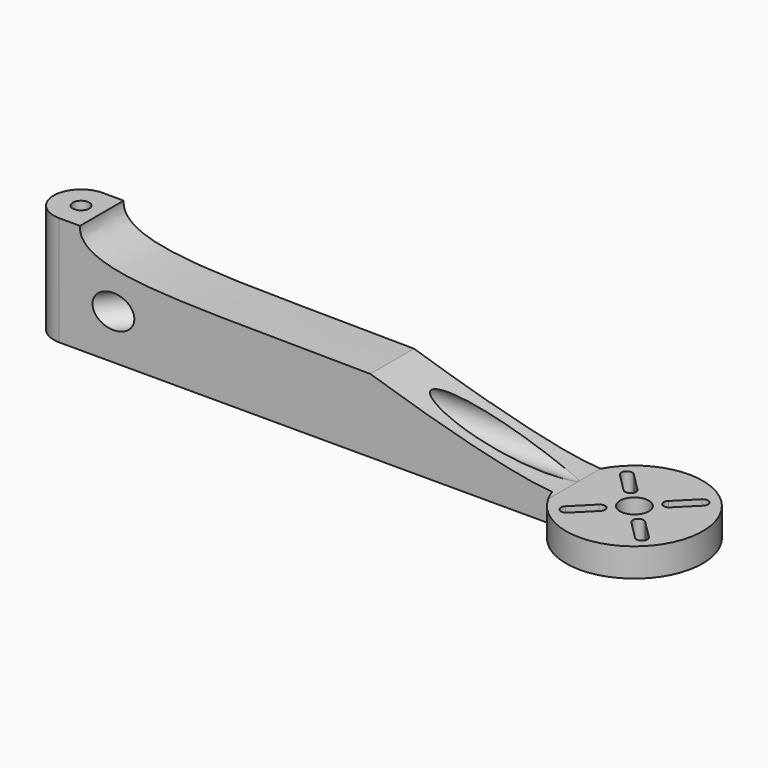
from build123d import *

# Parameters (mm, degrees)
F0_R          = 1.5
F0_R_2        = 2.6412895019
F1_DEPTH      = 20
F3_DEPTH      = 25
F3_DEPTH_BACK = 25
F6_R          = 3
F9_DEPTH      = 25
F11_W         = 149.615544593
F11_H         = 119.6888182312
F12_DEPTH     = 25


with BuildPart() as f1:
    # F0 (on Top) → F1 (new body)
    with BuildSketch(Plane.XY):
        with BuildLine():
            Line((-139.1577050821, 53.1693232265), (-48.1315898414, 53.1693232265))
            ThreePointArc((-48.1315898414, 53.1693232265), (-24.7040865671, 60.2304450376), (-48.9954501741, 63.1693232265))
            Line((-48.9954501741, 63.1693232265), (-139.1577050821, 63.1693232265))
            ThreePointArc((-139.1577050821, 63.1693232265), (-144.1577050821, 58.1693232265), (-139.1577050821, 53.1693232265))
        make_face()
        with Locations((-139.1577050821, 58.1693232265)):
            Circle(F0_R, mode=Mode.SUBTRACT)
        with BuildLine():
            ThreePointArc((-43.3736355328, 51.5244823211), (-44.7878490952, 51.5244823211), (-44.7878490952, 52.9386958835))
            Line((-44.7878490952, 52.9386958835), (-41.4003457692, 56.3261992095))
            ThreePointArc((-41.4003457692, 56.3261992095), (-39.9861322069, 56.3261992095), (-39.9861322069, 54.9119856471))
            Line((-39.9861322069, 54.9119856471), (-43.3736355328, 51.5244823211))
        make_face(mode=Mode.SUBTRACT)
        with BuildLine():
            ThreePointArc((-29.527561069, 52.9386958835), (-29.527561069, 51.5244823211), (-30.9417746314, 51.5244823211))
            Line((-30.9417746314, 51.5244823211), (-34.3292779574, 54.9119856471))
            ThreePointArc((-34.3292779574, 54.9119856471), (-34.3292779574, 56.3261992095), (-32.915064395, 56.3261992095))
            Line((-32.915064395, 56.3261992095), (-29.527561069, 52.9386958835))
        make_face(mode=Mode.SUBTRACT)
        with Locations((-37.1577050821, 59.1546263342)):
            Circle(F0_R_2, mode=Mode.SUBTRACT)
        with BuildLine():
            Line((-41.4003457692, 61.9830534589), (-44.7878490952, 65.3705567849))
            ThreePointArc((-44.7878490952, 65.3705567849), (-44.7878490952, 66.7847703473), (-43.3736355328, 66.7847703473))
            Line((-43.3736355328, 66.7847703473), (-39.9861322069, 63.3972670213))
            ThreePointArc((-39.9861322069, 63.3972670213), (-39.9861322069, 61.9830534589), (-41.4003457692, 61.9830534589))
        make_face(mode=Mode.SUBTRACT)
        with BuildLine():
            ThreePointArc((-30.9417746314, 66.7847703473), (-29.527561069, 66.7847703473), (-29.527561069, 65.3705567849))
            Line((-29.527561069, 65.3705567849), (-32.915064395, 61.983053459))
            ThreePointArc((-32.915064395, 61.9830534589), (-34.3292779574, 61.9830534589), (-34.3292779574, 63.3972670213))
            Line((-34.3292779574, 63.3972670213), (-30.9417746314, 66.7847703473))
        make_face(mode=Mode.SUBTRACT)
    extrude(amount=F1_DEPTH)

    # F2 (on face) → F3 (cut, two sides)
    with BuildSketch(Plane.XZ.offset(-53.1693232265)) as f3_sk:
        with BuildLine():
            add(Edge.make_bspline(
                [(-48.1315898414, 5.1997262053), (-55.5737955735, 5.517366778), (-70.0693075174, 9.5402547737), (-82.2478533544, 13.4277092293)],
                knots=[0, 0, 0, 0, 32.5655157772, 32.5655157772, 32.5655157772, 32.5655157772], degree=3))
            Line((-48.1315898414, 5.1997262053), (66.0970867342, 5.1997262053))
            Line((66.0970867342, 5.1997262053), (64.3360104363, 23.0218202323))
            Line((64.3360104363, 23.0218202323), (-14.16737711, 23.9689107984))
            Line((-14.16737711, 23.9689107984), (-21.0809869127, 20))
            Line((-21.0809869127, 20), (-48.1315898414, 24.3437178433))
            Line((-48.1315898414, 24.3437178433), (-48.1315898414, 13.4277092293))
            Line((-48.1315898414, 13.4277092293), (-82.2478533544, 13.4277092293))
        make_face()
    extrude(amount=-F3_DEPTH, mode=Mode.SUBTRACT)
    extrude(f3_sk.sketch, amount=F3_DEPTH_BACK, mode=Mode.SUBTRACT)

    # F7: sweep along a path in F4
    with BuildLine(Plane.XY.offset(5.1997262053)) as f7_path:
        Line((-61.2067505717, 58.1693232265), (-86.7135846391, 58.1693232265))
        Line((-86.7135846391, 58.1693232265), (-125.319480896, 58.1693232265))
        Line((-125.319480896, 58.1693232265), (-138.9607042074, 75.3938183188))
    # F6 (on face) → F7 (sweep, cut)
    with BuildSketch(Plane.YZ.offset(-48.1315898414)):
        with Locations((58.2011528313, 8.1997262053)):
            Circle(F6_R)
    sweep(path=f7_path.line, transition=Transition.RIGHT, mode=Mode.SUBTRACT)

    # F8 (on face) → F9 (cut)
    with BuildSketch(Plane.XZ.offset(-53.1693232265)):
        with BuildLine():
            add(Edge.make_bspline(
                [(-82.2478533544, 13.4277092293), (-114.2476946115, 13.955491595), (-135.7881426811, 12.4776158482), (-135.3534758091, 20)],
                knots=[0, 0, 0, 0, 53.5107666015, 53.5107666015, 53.5107666015, 53.5107666015], degree=3))
            Line((-82.2478533544, 13.4277092293), (-32.9686515033, 11.7128845304))
            Line((-32.9686515033, 11.7128845304), (-32.9686515033, 37.384595722))
            Line((-32.9686515033, 37.384595722), (-135.3534758091, 20))
        make_face()
    extrude(amount=-F9_DEPTH, mode=Mode.SUBTRACT)


with BuildPart() as f10_1:
    # F10: instance of F1
    add(f1.part.mirror(Plane.XZ))


with BuildPart() as f1_1:
    add(f1.part)

    # F11 (on face) → F12 (cut)
    with BuildSketch(Plane.XY.offset(20)):
        with Locations((-77.5791165652, 71.9989491627)):
            Rectangle(F11_W, F11_H)
    extrude(amount=-F12_DEPTH, mode=Mode.SUBTRACT)


solid = f10_1.part
